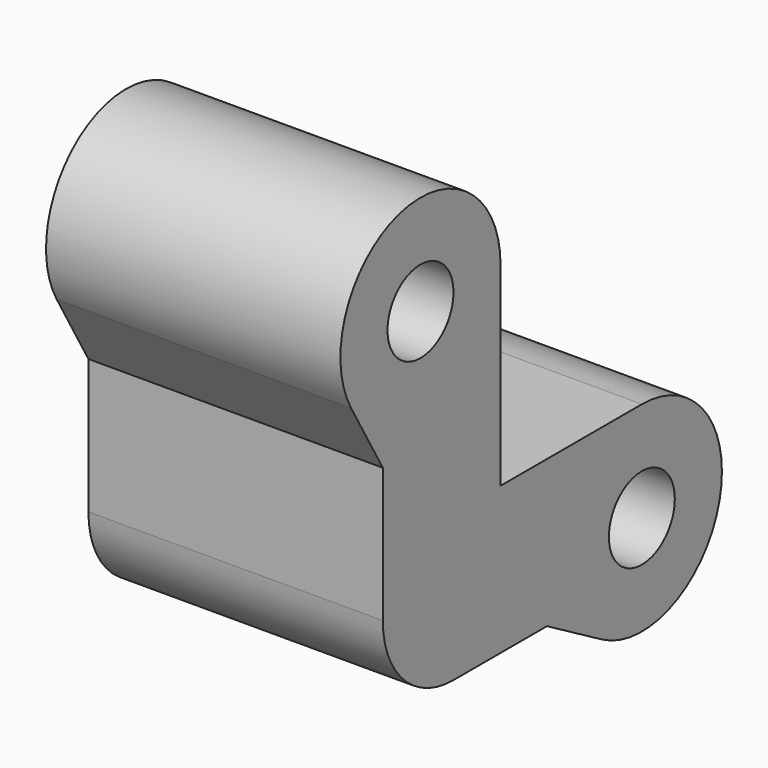
from build123d import *

# Parameters (mm, degrees)
F0_R     = 1.4
F1_DEPTH = 10
F2_R     = 3


with BuildPart() as f1:
    # F0 (on Right) → F1 (new body)
    with BuildSketch(Plane.YZ):
        with BuildLine():
            ThreePointArc((-1.7, -2.944486), (1.7, -2.944486), (3.4, 0))
            ThreePointArc((3.4, 0), (2.404163, 2.404163), (0, 3.4))
            ThreePointArc((0, 3.4), (-3.284148, 0.879985), (-1.7, -2.944486))
        make_face()
        Circle(F0_R, mode=Mode.SUBTRACT)
        with BuildLine():
            ThreePointArc((-1.7, -2.944486), (-3.284148, 0.879985), (0, 3.4))
            Line((0, 3.4), (-6, 3.4))
            Line((-6, 3.4), (-6, 10))
            ThreePointArc((-6, 10), (-8.520015, 6.715852), (-12.344486, 8.3))
            Line((-12.344486, 8.3), (-11, 5.971281))
            Line((-11, 5.971281), (-11, -1.6))
            Line((-11, -1.6), (-4.028719, -1.6))
            Line((-4.028719, -1.6), (-1.7, -2.944486))
        make_face()
        with BuildLine():
            ThreePointArc((-12.344486, 8.3), (-8.520015, 6.715852), (-6, 10))
            ThreePointArc((-6, 10), (-10.279985, 13.284148), (-12.344486, 8.3))
        make_face()
        with Locations((-9.4, 10)):
            Circle(F0_R, mode=Mode.SUBTRACT)
    extrude(amount=F1_DEPTH)

    # F2
    f2_edges = [f1.edges().sort_by_distance(p)[0] for p in [
        (5, -11, -1.6),
    ]]
    fillet(f2_edges, radius=F2_R)


solid = f1.part
